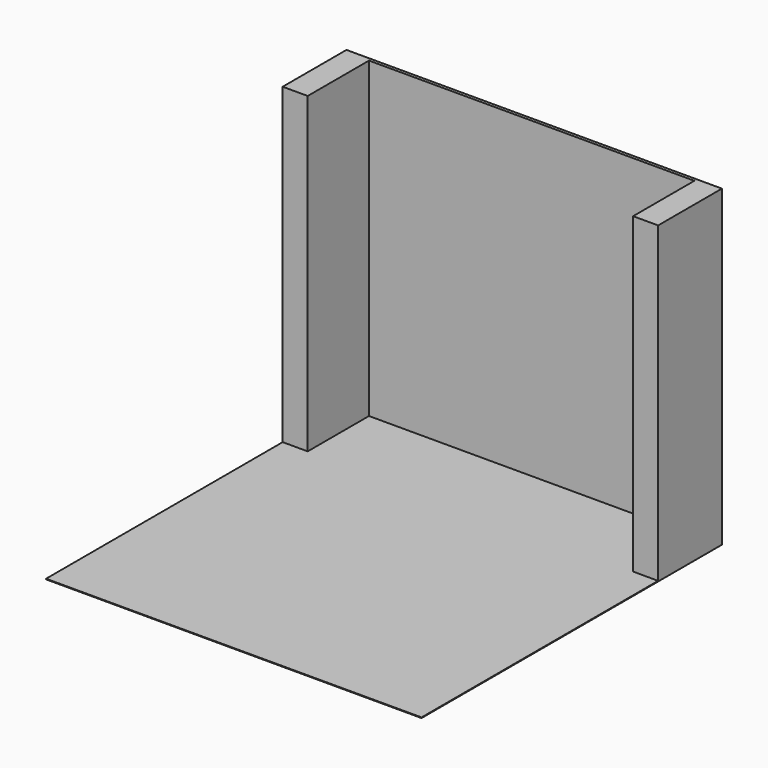
from build123d import *

# Parameters (mm, degrees)
F1_DEPTH = 5
F2_DEPTH = 2500


with BuildPart() as f1:
    # F0 (on Top) → F1 (new body)
    with BuildSketch(Plane.XY):
        Polygon((0, -3000), (0, -637.039244), (-200, -637.039244), (-200, -25), (-2800, -25), (-2800, -637.039244), (-3000, -637.039244), (-3000, -3000), align=None)
        Polygon((0, -637.039244), (0, 0), (-3000, 0), (-3000, -637.039244), (-2800, -637.039244), (-2800, -25), (-200, -25), (-200, -637.039244), align=None)
    extrude(amount=-F1_DEPTH)


with BuildPart() as f2:
    # F0 (on Top) → F2 (new body)
    with BuildSketch(Plane.XY):
        Polygon((0, -637.039244), (0, 0), (-3000, 0), (-3000, -637.039244), (-2800, -637.039244), (-2800, -25), (-200, -25), (-200, -637.039244), align=None)
    extrude(amount=F2_DEPTH)


solid = Compound([f1.part, f2.part])
